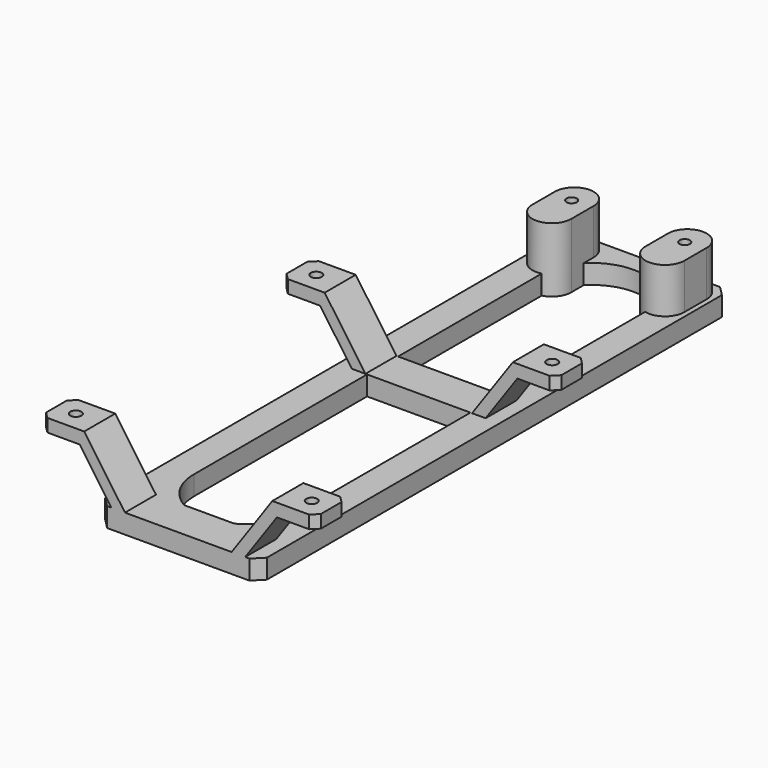
from build123d import *

# Parameters (mm, degrees)
SKETCH004_W     = 50
SKETCH004_H     = 182
PAD003_DEPTH    = 6
PAD010_DEPTH    = 20
SKETCH015_R     = 1.6
POCKET_DEPTH    = 20
PAD_DEPTH       = 12
PAD018_DEPTH    = 12
SKETCH019_R     = 1.7
HOLE_DEPTH      = 40
CHAMFER002_SIZE = 2
CHAMFER_SIZE    = 3


with BuildPart() as part:
    # Sketch004 → Pad003 (new body)
    with BuildSketch(Plane.XY):
        with Locations((0, -69)):
            Rectangle(SKETCH004_W, SKETCH004_H)
        with BuildLine():
            ThreePointArc((-16, -134), (0, -150), (16, -134))
            Line((16, -134), (16, 0))
            ThreePointArc((16, 0), (0, 16), (-16, 0))
            Line((-16, -134), (-16, 0))
        make_face(mode=Mode.SUBTRACT)
    extrude(amount=PAD003_DEPTH)

    # Sketch016 → Pad010 (join)
    with BuildSketch(Plane.XY):
        with BuildLine():
            ThreePointArc((-11.5, 15), (-17.5, 21), (-23.5, 15))
            Line((-23.5, 15), (-23.5, 6.359301))
            ThreePointArc((-23.5, 6.359301), (-17.5, 0.359301), (-11.5, 6.359301))
            Line((-11.5, 15), (-11.5, 6.359301))
        make_face()
        with BuildLine():
            ThreePointArc((23.5, 15), (17.5, 21), (11.5, 15))
            Line((11.5, 15), (11.5, 6.359301))
            ThreePointArc((11.5, 6.359301), (17.5, 0.359301), (23.5, 6.359301))
            Line((23.5, 15), (23.5, 6.359301))
        make_face()
    extrude(amount=PAD010_DEPTH)

    # Sketch015 → Pocket (cut)
    with BuildSketch(Plane.XY):
        with Locations((-17.5, 14)):
            Circle(SKETCH015_R)
        with Locations((17.5, 14)):
            Circle(SKETCH015_R)
    extrude(amount=POCKET_DEPTH, mode=Mode.SUBTRACT)

    # Sketch018 → Pad (join)
    with BuildSketch(Plane.XZ.offset(148)):
        Polygon((-16.5, 0), (16.5, 0), (30.504151, 20), (42.504151, 20), (42.504151, 24), (29.103736, 24), (16.5, 6), (-16.5, 6), (-29.103736, 24), (-42.504151, 24), (-42.504151, 20), (-30.504151, 20), align=None)
    extrude(amount=PAD_DEPTH)

    # Sketch034 → Pad018 (join)
    with BuildSketch(Plane.XZ.offset(55)):
        Polygon((-16.5, 0), (16.5, 0), (30.504151, 20), (42.504151, 20), (42.504151, 24), (29.103736, 24), (16.5, 6), (-16.5, 6), (-29.103736, 24), (-42.504151, 24), (-42.504151, 20), (-30.504151, 20), align=None)
    extrude(amount=PAD018_DEPTH)

    # Sketch019 → Hole (cut)
    with BuildSketch(Plane.XY):
        with Locations((-36.5, -154)):
            Circle(SKETCH019_R)
        with Locations((36.5, -154)):
            Circle(SKETCH019_R)
        with Locations((-36.5, -61)):
            Circle(SKETCH019_R)
        with Locations((36.5, -61)):
            Circle(SKETCH019_R)
    extrude(amount=HOLE_DEPTH, mode=Mode.SUBTRACT)

    # Chamfer002
    chamfer002_edges = [part.edges().sort_by_distance(p)[0] for p in [
        (-42.504151, -160, 22),
        (-42.504151, -148, 22),
        (42.504151, -160, 22),
        (42.504151, -148, 22),
        (-42.504151, -67, 22),
        (-42.504151, -55, 22),
        (42.504151, -67, 22),
        (42.504151, -55, 22),
    ]]
    chamfer(chamfer002_edges, length=CHAMFER002_SIZE)

    # Chamfer
    chamfer_edges = [part.edges().sort_by_distance(p)[0] for p in [
        (-25, -160, 3),
        (25, -160, 3),
        (25, 22, 3),
        (-25, 22, 3),
    ]]
    chamfer(chamfer_edges, length=CHAMFER_SIZE)


solid = part.part
